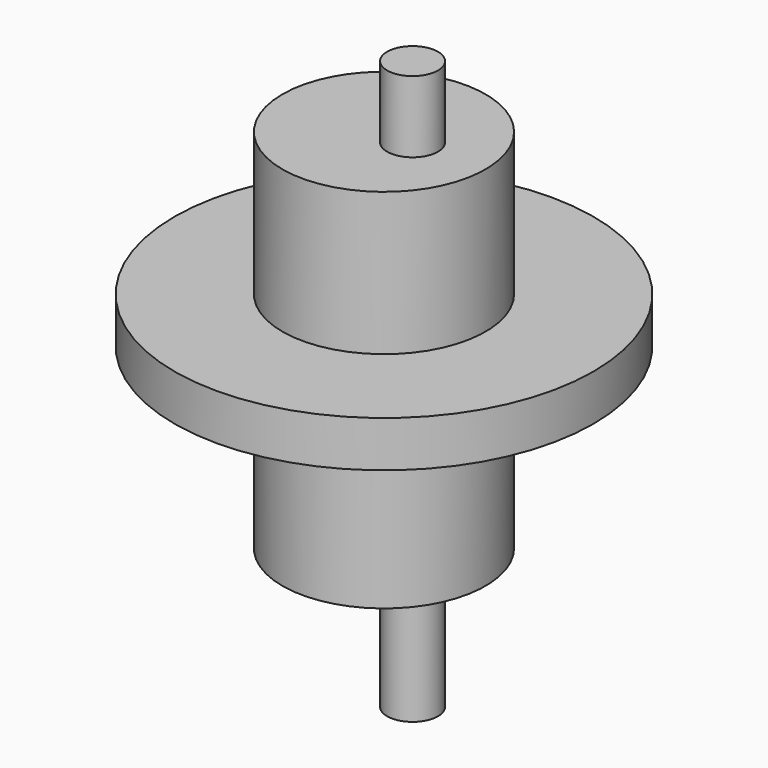
from build123d import *

# Parameters (mm, degrees)
F0_R     = 4.468086
F1_DEPTH = 50


with BuildPart() as f1:
    # F0 (on Top) → F1 (new body, symmetric)
    with BuildSketch(Plane.XY):
        Circle(F0_R)
    extrude(amount=F1_DEPTH, both=True)

    # F2 (on Front) → F3 (revolve)
    with BuildSketch(Plane.XZ):
        Polygon((-5.026595, -27.087769), (-5.026595, 37.420217), (-22.898935, 37.420217), (-22.898935, 12.287235), (-41.888297, 12.287235), (-41.888297, 4.18883), (-22.898935, 4.18883), (-22.898935, -27.087769), align=None)
    revolve(axis=Axis((-5.026595, 0, 5.166224), (0, 0, -1)))


solid = f1.part
